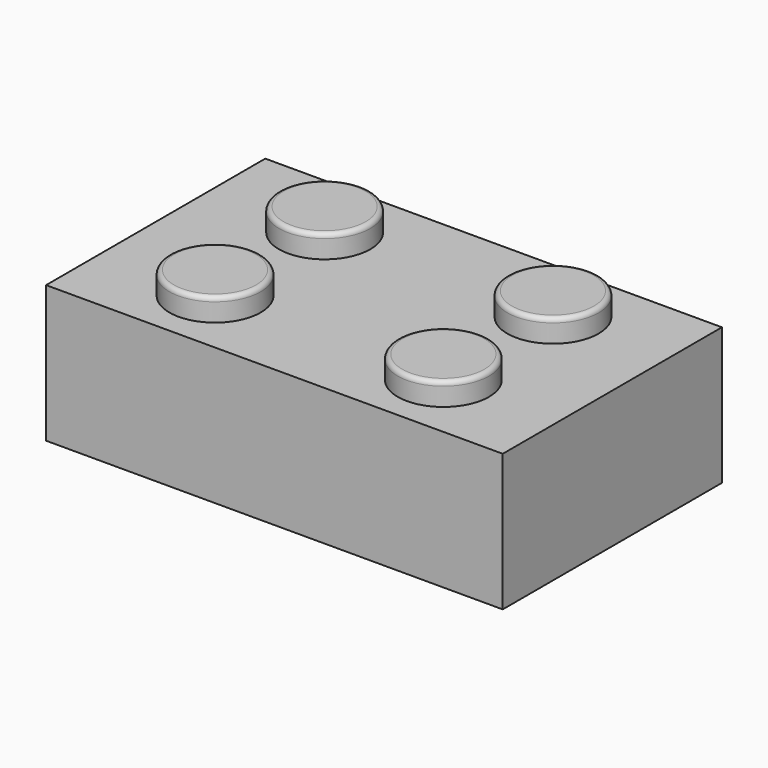
from build123d import *

# Parameters (mm, degrees)
F0_W     = 100
F0_H     = 60
F1_DEPTH = 30
F2_W     = 90.000001
F2_H     = 50.000001
F3_DEPTH = 20
F4_R     = 10
F5_DEPTH = 5
F6_R     = 1


with BuildPart() as f1:
    # F0 (on Top) → F1 (new body)
    with BuildSketch(Plane.XY):
        with Locations((-5.040722, 46.412729)):
            Rectangle(F0_W, F0_H)
    extrude(amount=F1_DEPTH)

    # F2 (on face) → F3 (cut)
    with BuildSketch(Plane(origin=(0, 0, 0), x_dir=(1, 0, 0), z_dir=(0, 0, -1))):
        with Locations((-5.040722, -46.412729)):
            Rectangle(F2_W, F2_H)
    extrude(amount=-F3_DEPTH, mode=Mode.SUBTRACT)

    # F4 (on face) → F5 (join)
    with BuildSketch(Plane.XY.offset(30)):
        with Locations((-30.040722, 61.412729)):
            Circle(F4_R)
        with Locations((-30.040722, 31.412729)):
            Circle(F4_R)
        with Locations((19.959278, 61.412729)):
            Circle(F4_R)
        with Locations((19.959278, 31.412729)):
            Circle(F4_R)
    extrude(amount=F5_DEPTH)

    # F6
    f6_edges = [f1.edges().sort_by_distance(p)[0] for p in [
        (-40.040722, 61.412729, 35),
        (9.959278, 61.412729, 35),
        (9.959278, 31.412729, 35),
        (-40.040722, 31.412729, 35),
    ]]
    fillet(f6_edges, radius=F6_R)


solid = f1.part
